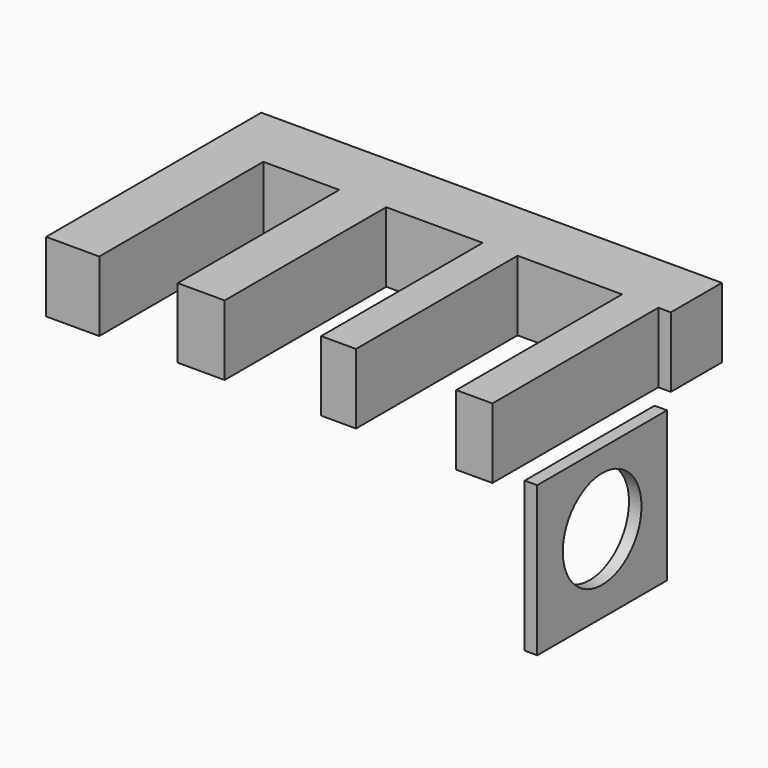
from build123d import *

# Parameters (mm, degrees)
F0_W     = 19.2736685276
F0_H     = 74.3412747979
F0_W_2   = 13.1190568209
F0_H_2   = 75.1510933042
F0_W_3   = 17.0061737299
F0_H_3   = 73.2075273991
F0_W_4   = 12.633157894
F2_DEPTH = 12.7
F3_START = 75.960919261
F1_W     = 58.8091406971
F1_H     = 54.2895048857
F1_R     = 17.8313793546
F3_DEPTH = 4.5349746943


with BuildPart() as f2:
    # F0 (on Top) → F2 (new body, symmetric)
    with BuildSketch(Plane.XY):
        Polygon((80.4958939552, 44.8639057577), (-86.4885449409, 44.8639057577), (-86.4885449409, 21.7031165957), (-67.2148764133, 21.7031165957), (-39.6810732782, 21.7031165957), (-22.6748995483, 21.7031165957), (12.309230864, 21.7031165957), (24.9423887581, 21.7031165957), (62.8418624401, 21.7031165957), (75.960919261, 21.7031165957), (80.4958939552, 21.7031165957), align=None)
        with Locations((-76.8517106771, -15.4675208032)):
            Rectangle(F0_W, F0_H)
        with Locations((69.4013908505, -15.8724300563)):
            Rectangle(F0_W_2, F0_H_2)
        with Locations((-31.1779864132, -14.9006471038)):
            Rectangle(F0_W_3, F0_H_3)
        with Locations((18.6258098111, -14.9006471038)):
            Rectangle(F0_W_4, F0_H_3)
    extrude(amount=F2_DEPTH, both=True)


with BuildPart() as f3:
    # F1 (on Right) → F3 (new body)
    with BuildSketch(Plane.YZ.offset(F3_START)):
        with Locations((-9.4152567908, -45.014180243)):
            Rectangle(F1_W, F1_H)
        with Locations((-9.4152567908, -43.7892191112)):
            Circle(F1_R, mode=Mode.SUBTRACT)
    extrude(amount=F3_DEPTH)


solid = Compound([f2.part, f3.part])
